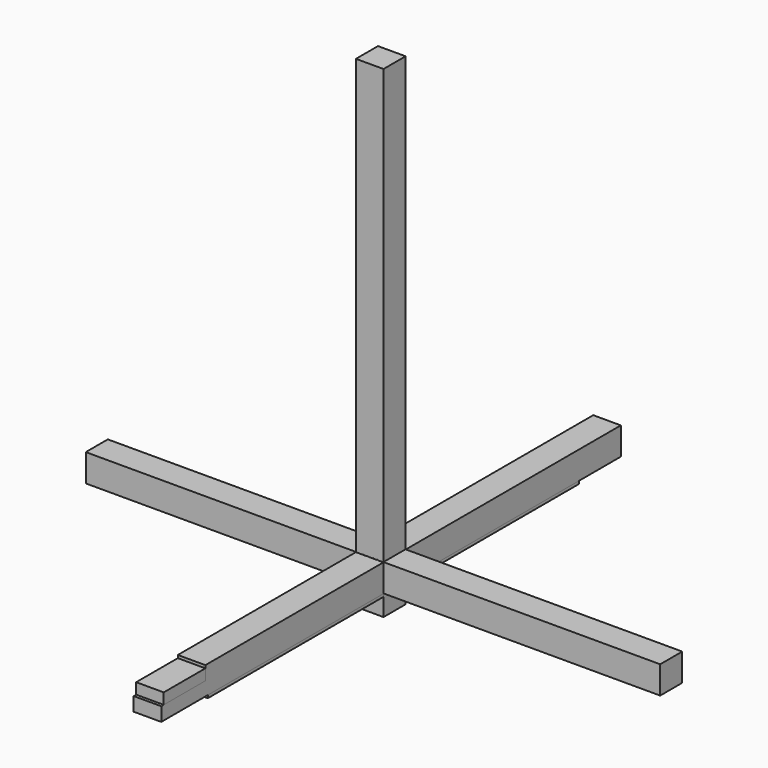
from build123d import *

# Parameters (mm, degrees)
F1_DEPTH = 60
F3_DEPTH = 60
F4_W     = 2500
F4_H     = 120
F5_DEPTH = 60
F6_W     = 120
F6_H     = 2100
F7_DEPTH = 60


with BuildPart() as f1:
    # F0 (on Right) → F1 (new body, symmetric)
    with BuildSketch(Plane.YZ):
        Polygon((764.689085, -9.022395), (-1255.310915, -9.022395), (-1255.310915, -69.022395), (-1015.310915, -69.022395), (-1015.310915, -129.022395), (1004.689085, -129.022395), (1004.689085, -69.022395), (764.689085, -69.022395), align=None)
    extrude(amount=F1_DEPTH, both=True)


with BuildPart() as f3:
    # F2 (on Right) → F3 (new body, symmetric)
    with BuildSketch(Plane.YZ):
        Polygon((-1268.762529, -56.775315), (-1268.762529, -116.775315), (1231.237471, -116.775315), (1231.237471, 3.224685), (-1028.762529, 3.224685), (-1028.762529, -56.775315), align=None)
    extrude(amount=F3_DEPTH, both=True)


with BuildPart() as f5:
    # F4 (on Front) → F5 (new body, symmetric)
    with BuildSketch(Plane.XZ):
        with Locations((14.390022, -55.630816)):
            Rectangle(F4_W, F4_H)
    extrude(amount=F5_DEPTH, both=True)


with BuildPart() as f7:
    # F6 (on Right) → F7 (new body, symmetric)
    with BuildSketch(Plane.YZ):
        with Locations((0.283696, 843.399713)):
            Rectangle(F6_W, F6_H)
    extrude(amount=F7_DEPTH, both=True)


solid = Compound([f1.part, f3.part, f5.part, f7.part])
